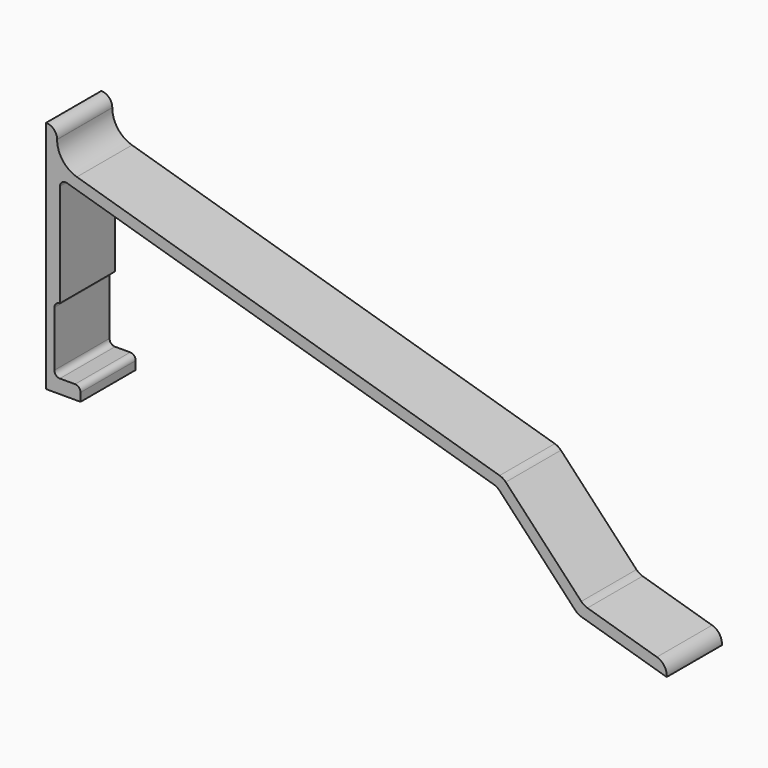
from build123d import *

# Parameters (mm, degrees)
F1_DEPTH = 25


with BuildPart() as f1:
    # F0 (on Front) → F1 (new body)
    with BuildSketch(Plane.XZ):
        with BuildLine():
            Line((-64.745709, 61.124308), (-64.745709, -23.875692))
            Line((-64.745709, -23.875692), (-52.245709, -23.875692))
            Line((-52.245709, -23.875692), (-52.245709, -20.875692))
            ThreePointArc((-52.245709, -20.875692), (-52.831495, -19.461478), (-54.245709, -18.875692))
            Line((-54.245709, -18.875692), (-59.745709, -18.875692))
            ThreePointArc((-59.745709, -18.875692), (-61.159922, -18.289905), (-61.745709, -16.875692))
            Line((-61.745709, -16.875692), (-61.745709, 3.124308))
            ThreePointArc((-61.745709, 3.124308), (-61.159922, 4.538522), (-59.745709, 5.124308))
            Line((-59.745709, 5.124308), (-59.745709, 42.445086))
            ThreePointArc((-59.745709, 42.445086), (-58.9421, 44.047786), (-57.177062, 44.362543))
            Line((-57.177062, 44.362543), (97.500285, -1.509033))
            ThreePointArc((97.500285, -1.509033), (98.70368, -2.047171), (99.72461, -2.881111))
            Line((99.72461, -2.881111), (127.108349, -32.060611))
            ThreePointArc((127.108349, -32.060611), (128.129279, -32.89455), (129.332675, -33.432689))
            Line((129.332675, -33.432689), (160.254291, -42.602896))
            ThreePointArc((160.254291, -42.602896), (159.406122, -39.3547), (156.694794, -37.375087))
            Line((156.694794, -37.375087), (131.508298, -29.905705))
            ThreePointArc((131.508298, -29.905705), (130.304903, -29.367566), (129.283973, -28.533627))
            Line((129.283973, -28.533627), (101.900234, 0.645873))
            ThreePointArc((101.900234, 0.645873), (100.879304, 1.479812), (99.675908, 2.017951))
            Line((99.675908, 2.017951), (-53.588942, 47.470632))
            ThreePointArc((-53.588942, 47.470632), (-58.759208, 51.075958), (-60.745709, 57.057917))
            Line((-60.745709, 57.057917), (-60.745709, 57.124308))
            ThreePointArc((-60.745709, 57.124308), (-61.917281, 59.952736), (-64.745709, 61.124308))
        make_face()
    extrude(amount=F1_DEPTH)


solid = f1.part
